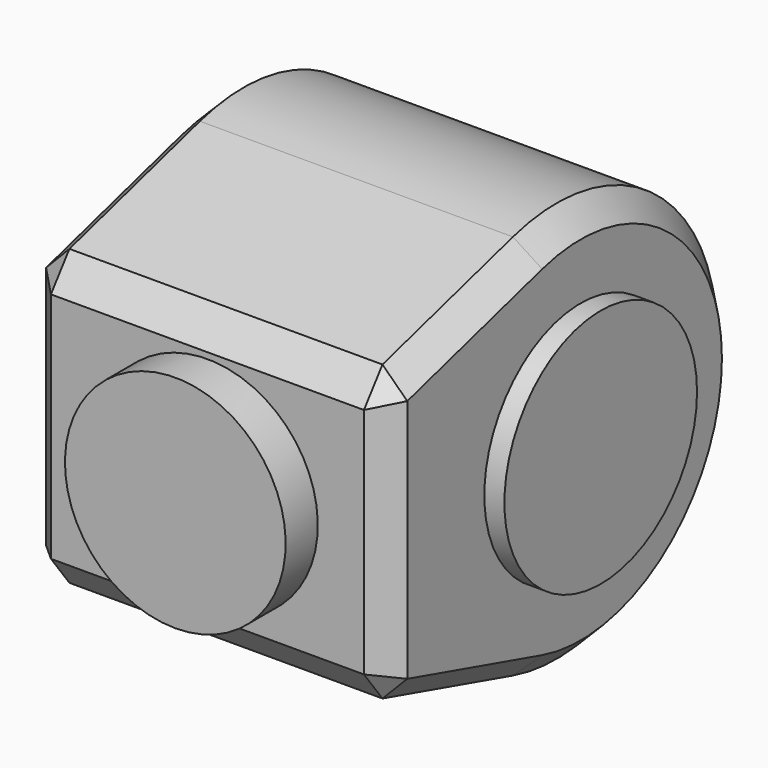
from build123d import *

# Parameters (mm, degrees)
PAD_DEPTH    = 45
SKETCH001_R  = 30
PAD001_DEPTH = 5
PAD002_DEPTH = 95
SKETCH002_R  = 27.5
PAD003_DEPTH = 10
CHAMFER_SIZE = 6


with BuildPart() as part:
    # Sketch → Pad (new body, symmetric)
    with BuildSketch(Plane.YZ):
        with BuildLine():
            Line((-13.599597, 48.114976), (-60, 35))
            Line((-60, 35), (-60, -35))
            Line((-60, -35), (-13.599597, -48.114976))
            ThreePointArc((-13.599597, -48.114976), (50, 0), (-13.599597, 48.114976))
        make_face()
    extrude(amount=PAD_DEPTH, both=True)

    # Sketch001 (on Face6 of Pad) → Pad001 (join)
    with BuildSketch(Plane.YZ.offset(45)):
        Circle(SKETCH001_R)
    extrude(amount=PAD001_DEPTH)

    # Sketch001 (on Face6 of Pad) → Pad002 (join)
    with BuildSketch(Plane.YZ.offset(45)):
        Circle(SKETCH001_R)
    extrude(amount=-PAD002_DEPTH)

    # Sketch002 (on Face3 of Pad002) → Pad003 (join)
    with BuildSketch(Plane(origin=(0, -60, 0), x_dir=(0, 0, -1), z_dir=(0, -1, 0))):
        Circle(SKETCH002_R)
    extrude(amount=PAD003_DEPTH)

    # Chamfer
    chamfer_edges = [part.edges().sort_by_distance(p)[0] for p in [
        (0, -13.599597, -48.114976),
        (0, -13.599597, 48.114976),
        (-45, 50, 0),
        (45, 50, 0),
        (0, -60, 35),
        (-45, -36.799799, 41.557488),
        (45, -36.799799, 41.557488),
        (0, -60, -35),
        (-45, -36.799799, -41.557488),
        (45, -36.799799, -41.557488),
        (45, -60, 0),
        (-45, -60, 0),
    ]]
    chamfer(chamfer_edges, length=CHAMFER_SIZE)


solid = part.part
